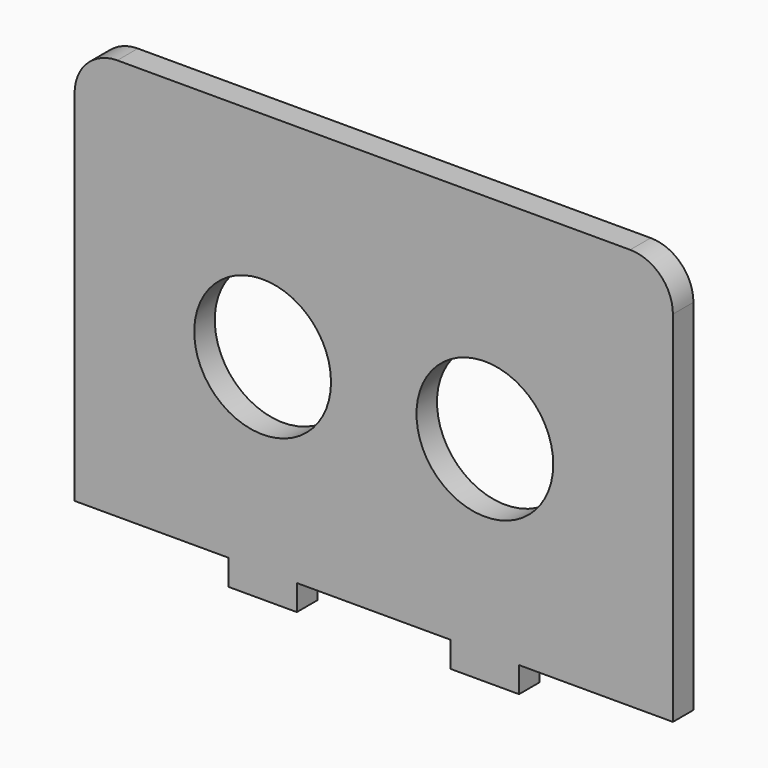
from build123d import *

# Parameters (mm, degrees)
F0_R     = 8
F1_DEPTH = 3


with BuildPart() as f1:
    # F0 (on Front) → F1 (new body)
    with BuildSketch(Plane.XZ):
        with BuildLine():
            Line((30, 25), (-30, 25))
            ThreePointArc((-30, 25), (-33.535534, 23.535534), (-35, 20))
            Line((-35, 20), (-35, -22))
            Line((-35, -22), (-17, -22))
            Line((-17, -22), (-17, -25))
            Line((-17, -25), (-9, -25))
            Line((-9, -25), (-9, -22))
            Line((-9, -22), (9, -22))
            Line((9, -22), (9, -25))
            Line((9, -25), (17, -25))
            Line((17, -25), (17, -22))
            Line((17, -22), (35, -22))
            Line((35, -22), (35, 20))
            ThreePointArc((35, 20), (33.535534, 23.535534), (30, 25))
        make_face()
        with Locations((-13, -0.010779)):
            Circle(F0_R, mode=Mode.SUBTRACT)
        with Locations((13, -0.016032)):
            Circle(F0_R, mode=Mode.SUBTRACT)
    extrude(amount=F1_DEPTH)


solid = f1.part
